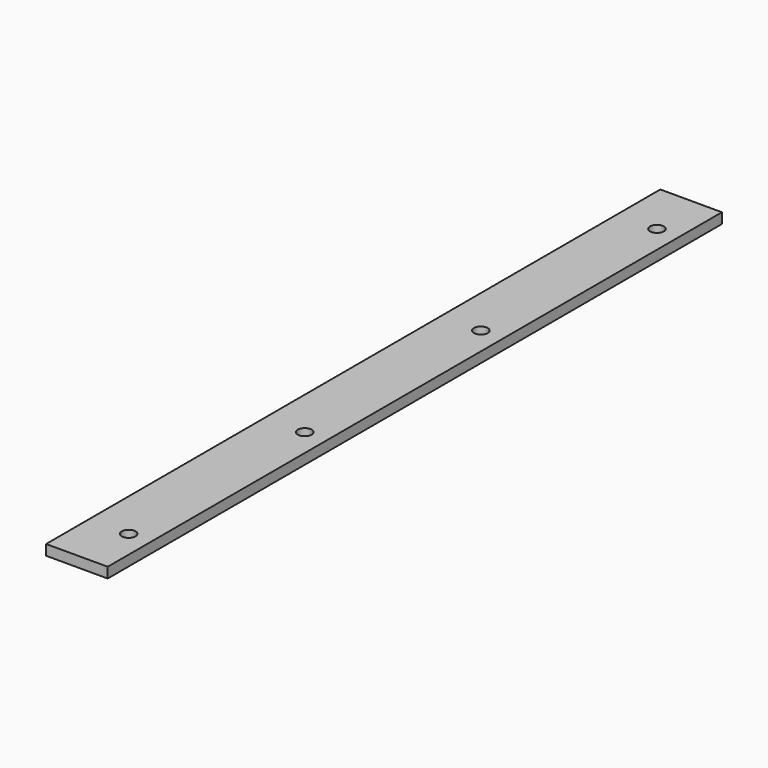
from build123d import *

# Parameters (mm, degrees)
SKETCH_W      = 35.56
SKETCH_H      = 442.9252
SKETCH_R      = 3.9751
EXTRUDE_DEPTH = 5.9944


with BuildPart() as part:
    # Sketch → Extrude (new body)
    with BuildSketch(Plane.XY):
        with Locations((17.78, -221.4626)):
            Rectangle(SKETCH_W, SKETCH_H)
        with Locations((22.86, -30.9626)):
            Circle(SKETCH_R, mode=Mode.SUBTRACT)
        with Locations((22.86, -157.9626)):
            Circle(SKETCH_R, mode=Mode.SUBTRACT)
        with Locations((22.86, -284.9626)):
            Circle(SKETCH_R, mode=Mode.SUBTRACT)
        with Locations((22.86, -411.9626)):
            Circle(SKETCH_R, mode=Mode.SUBTRACT)
    extrude(amount=EXTRUDE_DEPTH)


solid = part.part
